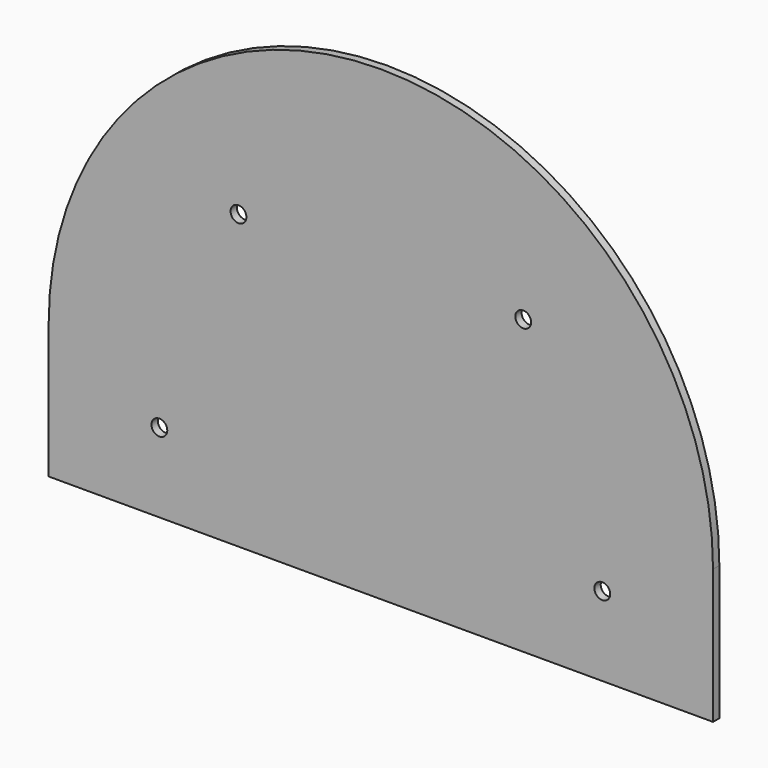
from build123d import *

# Parameters (mm, degrees)
F0_R     = 5
F1_DEPTH = 5


with BuildPart() as f1:
    # F0 (on Front) → F1 (new body)
    with BuildSketch(Plane.XZ):
        with BuildLine():
            Line((-29.064023, -50), (-29.064023, 35))
            ThreePointArc((-29.064023, 35), (-239.064023, 245), (-449.064023, 35))
            Line((-449.064023, 35), (-449.064023, -50))
            Line((-449.064023, -50), (-29.064023, -50))
        make_face()
        with Locations((-379.064023, 0)):
            Circle(F0_R, mode=Mode.SUBTRACT)
        with Locations((-99.064023, 0)):
            Circle(F0_R, mode=Mode.SUBTRACT)
        with Locations((-329.064023, 135)):
            Circle(F0_R, mode=Mode.SUBTRACT)
        with Locations((-149.064023, 135)):
            Circle(F0_R, mode=Mode.SUBTRACT)
    extrude(amount=F1_DEPTH)


solid = f1.part
